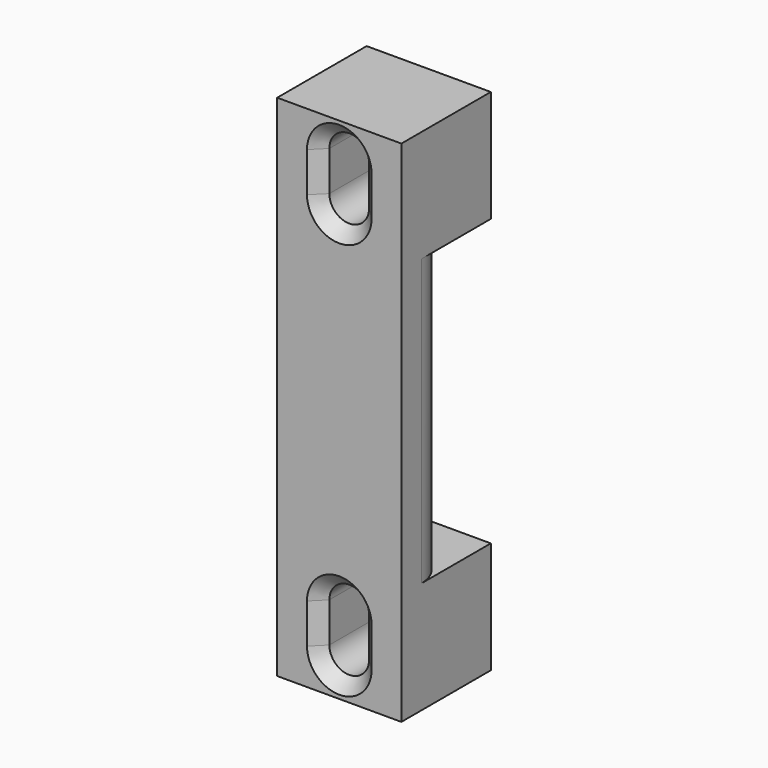
from build123d import *

# Parameters (mm, degrees)
F0_W     = 10
F0_H     = 41
F1_DEPTH = 5
F4_DEPTH = 23
F6_DEPTH = 4
F7_SIZE  = 1


with BuildPart() as f1:
    # F0 (on Front) → F1 (new body)
    with BuildSketch(Plane.XZ):
        with Locations((5, 20.5)):
            Rectangle(F0_W, F0_H)
        with BuildLine():
            ThreePointArc((3.4, 6.1), (5, 7.7), (6.6, 6.1))
            Line((6.6, 6.1), (6.6, 2.9))
            ThreePointArc((6.6, 2.9), (5, 1.3), (3.4, 2.9))
            Line((3.4, 2.9), (3.4, 6.1))
        make_face(mode=Mode.SUBTRACT)
        with BuildLine():
            ThreePointArc((6.6, 34.9), (5, 33.3), (3.4, 34.9))
            Line((3.4, 34.9), (3.4, 38.1))
            ThreePointArc((3.4, 38.1), (5, 39.7), (6.6, 38.1))
            Line((6.6, 38.1), (6.6, 34.9))
        make_face(mode=Mode.SUBTRACT)
    extrude(amount=F1_DEPTH)

    # F3 (on offset) → F4 (cut)
    with BuildSketch(Plane.XY.offset(9)):
        with BuildLine():
            Line((10, 0), (7, 0))
            ThreePointArc((7, 0), (9.12132, -0.87868), (10, -3))
            Line((10, -3), (10, -2.5))
            Line((10, -2.5), (10, 0))
        make_face()
        with BuildLine():
            ThreePointArc((0, -3), (0.87868, -0.87868), (3, 0))
            Line((3, 0), (0, 0))
            Line((0, 0), (0, -3))
        make_face()
    extrude(amount=F4_DEPTH, mode=Mode.SUBTRACT)

    # F5 (on face) → F6 (join)
    with BuildSketch(Plane(origin=(0, 0, 0), x_dir=(-1, 0, 0), z_dir=(0, 1, 0))):
        Polygon((0, 32), (0, 41), (-10, 41), (-10, 32), (-7, 32), (-3, 32), align=None)
        with BuildLine():
            Line((-6.6, 34.9), (-6.6, 38.1))
            ThreePointArc((-6.6, 38.1), (-5, 39.7), (-3.4, 38.1))
            Line((-3.4, 38.1), (-3.4, 34.9))
            ThreePointArc((-3.4, 34.9), (-5, 33.3), (-6.6, 34.9))
        make_face(mode=Mode.SUBTRACT)
        Polygon((0, 9), (-3, 9), (-7, 9), (-10, 9), (-10, 0), (0, 0), align=None)
        with BuildLine():
            Line((-6.6, 2.9), (-6.6, 6.1))
            ThreePointArc((-6.6, 6.1), (-5, 7.7), (-3.4, 6.1))
            Line((-3.4, 6.1), (-3.4, 2.9))
            ThreePointArc((-3.4, 2.9), (-5, 1.3), (-6.6, 2.9))
        make_face(mode=Mode.SUBTRACT)
    extrude(amount=F6_DEPTH)

    # F7
    f7_edges = [f1.edges().sort_by_distance(p)[0] for p in [
        (5, -5, 33.3),
        (5, -5, 1.3),
    ]]
    chamfer(f7_edges, length=F7_SIZE)


solid = f1.part
